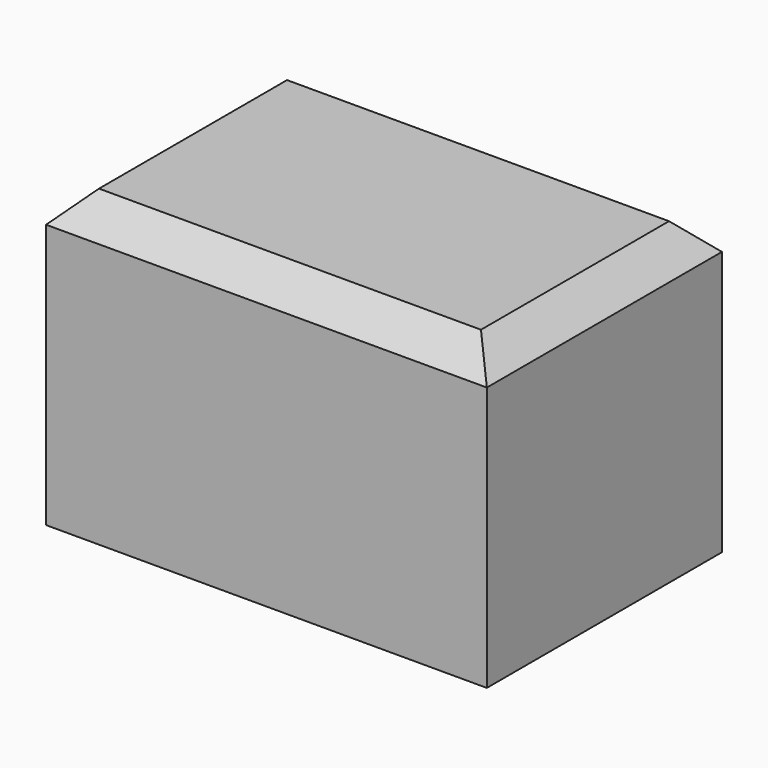
from build123d import *

# Parameters (mm, degrees)
F0_W     = 76.2
F0_H     = 50.8
F1_DEPTH = 50.8
F2_SIZE  = 5.08


with BuildPart() as f1:
    # F0 (on Top) → F1 (new body)
    with BuildSketch(Plane.XY):
        with Locations((19.231885, -3.700905)):
            Rectangle(F0_W, F0_H)
        with Locations((19.231885, -3.700905)):
            Rectangle(F0_W, F0_H)
    extrude(amount=F1_DEPTH)

    # F2
    f2_edges = [f1.edges().sort_by_distance(p)[0] for p in [
        (19.231885, -29.100905, 50.8),
        (57.331885, -3.700905, 50.8),
        (19.231885, 21.699095, 50.8),
        (-18.868115, -3.700905, 50.8),
    ]]
    chamfer(f2_edges, length=F2_SIZE)


solid = f1.part
